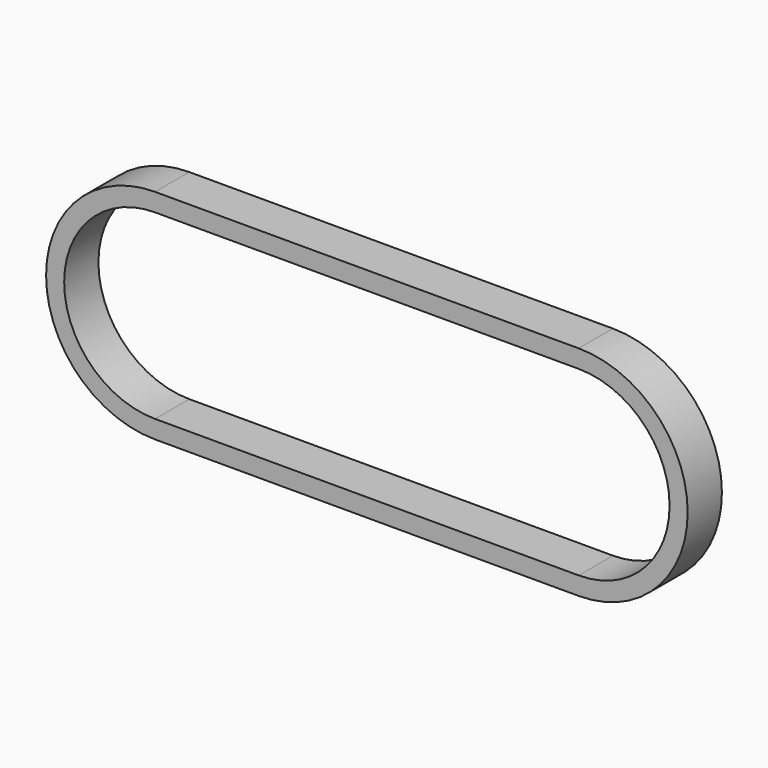
from build123d import *

# Parameters (mm, degrees)
F1_W = 9
F1_H = 3.8


with BuildPart() as f2:
    # F2: sweep along a path in F0
    with BuildLine(Plane.XZ) as f2_path:
        ThreePointArc((0, 21), (-21, 0), (0, -21))
        Line((0, -21), (89, -21))
        ThreePointArc((89, -21), (110, 0), (89, 21))
        Line((89, 21), (0, 21))
    # F1 (on Right) → F2 (sweep)
    with BuildSketch(Plane.YZ):
        with Locations((0, 21)):
            Rectangle(F1_W, F1_H)
    sweep(path=f2_path.line)


solid = f2.part
